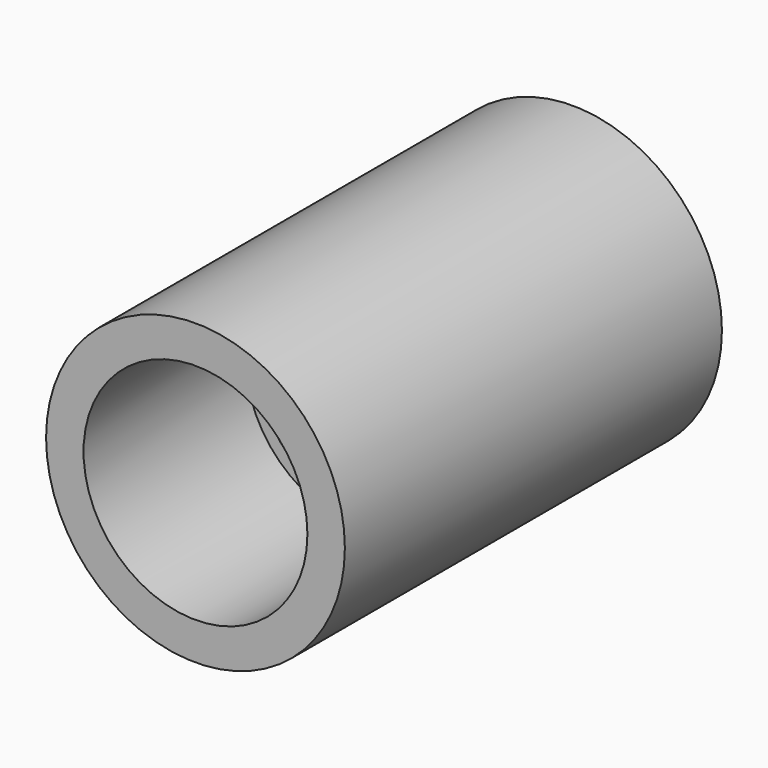
from build123d import *

# Parameters (mm, degrees)
F0_R     = 25.357029
F1_DEPTH = 80
F2_R     = 19
F3_DEPTH = 99.8
F5_R     = 21.659123
F6_DEPTH = 2


with BuildPart() as f1:
    # F0 (on Front) → F1 (new body)
    with BuildSketch(Plane.XZ):
        Circle(F0_R)
    extrude(amount=-F1_DEPTH)

    # F2 (on face) → F3 (cut)
    with BuildSketch(Plane.XZ):
        Circle(F2_R)
    extrude(amount=-F3_DEPTH, mode=Mode.SUBTRACT)

    # F5 (on offset) → F6 (cut)
    with BuildSketch(Plane.XZ.offset(-34.4)):
        Circle(F5_R)
    extrude(amount=-F6_DEPTH, mode=Mode.SUBTRACT)


solid = f1.part
